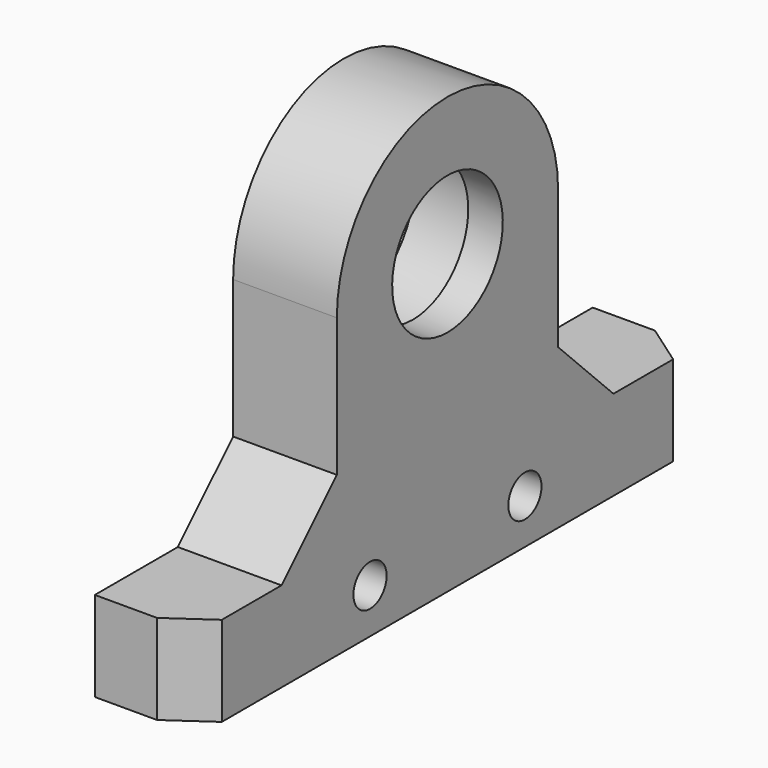
from build123d import *

# Parameters (mm, degrees)
SKETCH_R         = 6.5
EXTRUDE_DEPTH    = 7.5
TUBE002_R        = 6.5
TUBE002_R_2      = 5
TUBE002_DEPTH    = 2.5
SKETCH023_R      = 1.5
EXTRUDE015_DEPTH = 100
EXTRUDE008_DEPTH = 6.5


with BuildPart() as extrude_body:
    # Sketch (on Tube) → Extrude (new body)
    with BuildSketch(Plane.YZ):
        with BuildLine():
            ThreePointArc((10, 0), (0, 10), (-10, 0))
            Line((-10, 0), (-10, -10))
            Line((-15, -15), (-10, -10))
            Line((-15, -15), (15, -15))
            Line((15, -15), (10, -10))
            Line((10, 0), (10, -10))
        make_face()
        Circle(SKETCH_R, mode=Mode.SUBTRACT)
    extrude(amount=EXTRUDE_DEPTH)


with BuildPart() as extrude_body_1:
    # Extrude placement: moved
    add(extrude_body.part.moved(Location((15, 0, 0))))


with BuildPart() as fusion002:
    # Tube002 → Tube002 (new body)
    with BuildSketch(Plane(origin=(20, 0, 0), x_dir=(0, 0, -1), z_dir=(1, 0, 0))):
        Circle(TUBE002_R)
        Circle(TUBE002_R_2, mode=Mode.SUBTRACT)
    extrude(amount=TUBE002_DEPTH)

    # Fusion002: union Extrude body
    add(extrude_body_1.part)


with BuildPart() as extrude015:
    # Sketch023 → Extrude015 (new body)
    with BuildSketch(Plane.YZ.offset(34.5)):
        with Locations((-7, -18.25)):
            Circle(SKETCH023_R)
        with Locations((7, -18.25)):
            Circle(SKETCH023_R)
    extrude(amount=-EXTRUDE015_DEPTH)


with BuildPart() as extrude008:
    # Sketch015 (on Face7 of Fusion001) → Extrude008 (new body)
    with BuildSketch(Plane(origin=(0, 0, -15), x_dir=(1, 0, 0), z_dir=(0, 0, -1))):
        Polygon((-22.5, 20.399377), (-22.5, -20.399377), (-19.5, -22.5), (-15, -22.5), (-15, 22.5), (-19.5, 22.5), align=None)
    extrude(amount=EXTRUDE008_DEPTH)


with BuildPart() as fusion006:
    # Part__Mirroring: instance of Extrude008
    add(extrude008.part.mirror(Plane(origin=(0, 0, 0), x_dir=(0, -1, 0), z_dir=(1, 0, 0))))

    # Cut004: cut Extrude015
    add(extrude015.part, mode=Mode.SUBTRACT)

    # Fusion006: union Fusion002
    add(fusion002.part)


solid = fusion006.part
